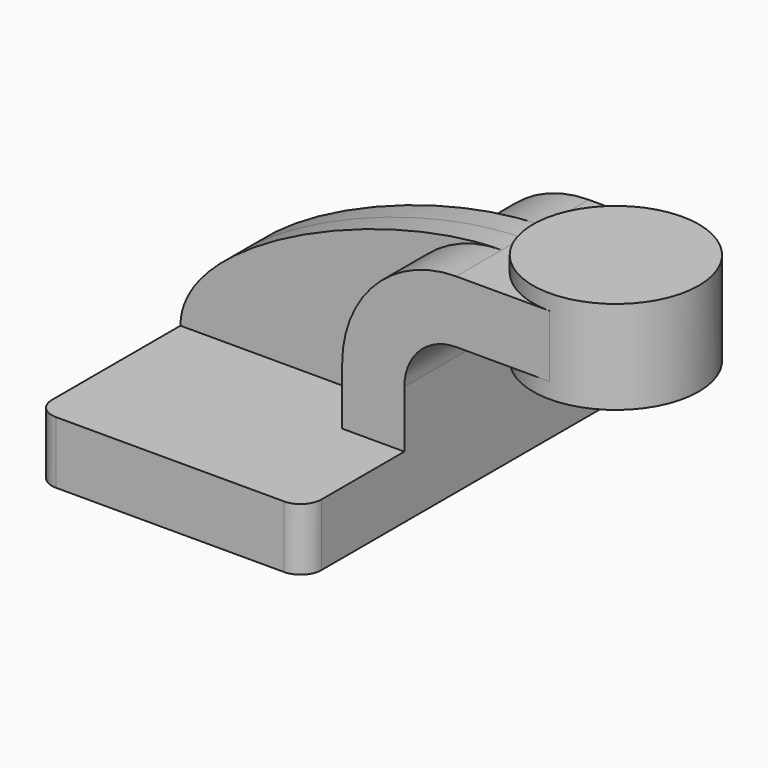
from build123d import *

# Parameters (mm, degrees)
F1_DEPTH = 63.5
F0_W     = 25.4
F0_H     = 19.05
F2_DEPTH = 25.4
F3_DEPTH = 7.9375
F7_R     = 6.35


with BuildPart() as f1:
    # F0 (on Front) → F1 (new body, symmetric)
    with BuildSketch(Plane.XZ):
        Polygon((22.225, 9.525), (-41.275, 9.525), (-41.275, -9.525), (41.275, -9.525), (41.275, 9.525), align=None)
    extrude(amount=F1_DEPTH, both=True)

    # F0 (on Front) → F2 (join, symmetric)
    with BuildSketch(Plane.XZ):
        with BuildLine():
            Line((22.225, 27.0002), (22.225, 9.525))
            Line((22.225, 9.525), (41.275, 9.525))
            Line((41.275, 9.525), (41.275, 27.0002))
            ThreePointArc((41.275, 27.0002), (45.9246798487, 38.2255201513), (57.15, 42.8752))
            Line((57.15, 42.8752), (60.325, 42.8752))
            Line((60.325, 42.8752), (60.325, 61.9252))
            Line((60.325, 61.9252), (57.15, 61.9252))
            ThreePointArc((57.15, 61.9252), (32.4542956671, 51.6959043329), (22.225, 27.0002))
        make_face()
        with Locations((73.025, 52.4002)):
            Rectangle(F0_W, F0_H)
    extrude(amount=F2_DEPTH, both=True)

    # F0 (on Front) → F3 (join, symmetric)
    with BuildSketch(Plane.XZ):
        with BuildLine():
            add(Edge.make_bspline(
                [(-41.275, 9.525), (-41.275, 35.0551274456), (20.699101642, 61.9252), (57.15, 61.9252)],
                knots=[0, 0, 0, 0, 111.5045361635, 111.5045361635, 111.5045361635, 111.5045361635], degree=3))
            Line((-41.275, 9.525), (22.225, 9.525))
            Line((22.225, 9.525), (22.225, 27.0002))
            ThreePointArc((22.225, 27.0002), (32.4542956671, 51.6959043329), (57.15, 61.9252))
        make_face()
    extrude(amount=F3_DEPTH, both=True)

    # F7
    f7_edges = [f1.edges().sort_by_distance(p)[0] for p in [
        (41.275, -63.5, 0),
        (-41.275, -63.5, 0),
        (-41.275, 63.5, 0),
        (41.275, 63.5, 0),
    ]]
    fillet(f7_edges, radius=F7_R)


with BuildPart() as f4:
    # F0 (on Front) → F4 (revolve)
    with BuildSketch(Plane.XZ):
        Polygon((85.725, 66.675), (85.725, 61.9252), (85.725, 42.8752), (85.725, 38.1), (111.125, 38.1), (111.125, 66.675), align=None)
    revolve(axis=Axis((85.725, 0, 52.3875), (0, 0, 1)))


with BuildPart() as f6:
    # F0 (on Front) → F6 (revolve)
    with BuildSketch(Plane.XZ):
        Polygon((85.725, 66.675), (85.725, 61.9252), (85.725, 42.8752), (85.725, 38.1), (111.125, 38.1), (111.125, 66.675), align=None)
    revolve(axis=Axis((85.725, 0, 52.3875), (0, 0, 1)))


solid = Compound([f1.part, f6.part])
